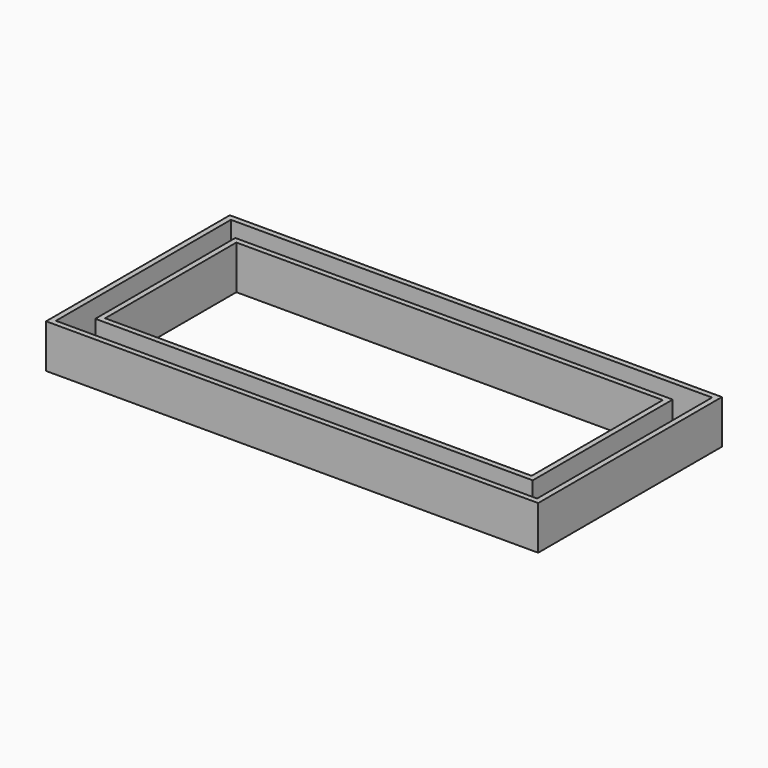
from build123d import *

# Parameters (mm, degrees)
F1_W     = 279.4
F1_H     = 127
F1_W_2   = 254
F1_H_2   = 101.6
F3_DEPTH = 3.175
F2_W     = 285.75
F2_H     = 133.35
F2_W_2   = 279.4
F2_H_2   = 127
F6_DEPTH = 25.4
F7_W     = 254
F7_H     = 101.6
F7_W_2   = 247.65
F7_H_2   = 95.25
F8_DEPTH = 25.4


with BuildPart() as f3:
    # F1 (on Top) → F3 (new body)
    with BuildSketch(Plane.XY):
        Rectangle(F1_W, F1_H)
        Rectangle(F1_W_2, F1_H_2, mode=Mode.SUBTRACT)
    extrude(amount=F3_DEPTH)

    # F2 (on face) → F6 (join)
    with BuildSketch(Plane.XY):
        Rectangle(F2_W, F2_H)
        Rectangle(F2_W_2, F2_H_2, mode=Mode.SUBTRACT)
    extrude(amount=F6_DEPTH)

    # F7 (on face) → F8 (join)
    with BuildSketch(Plane.XY):
        Rectangle(F7_W, F7_H)
        Rectangle(F7_W_2, F7_H_2, mode=Mode.SUBTRACT)
    extrude(amount=F8_DEPTH)


solid = f3.part
